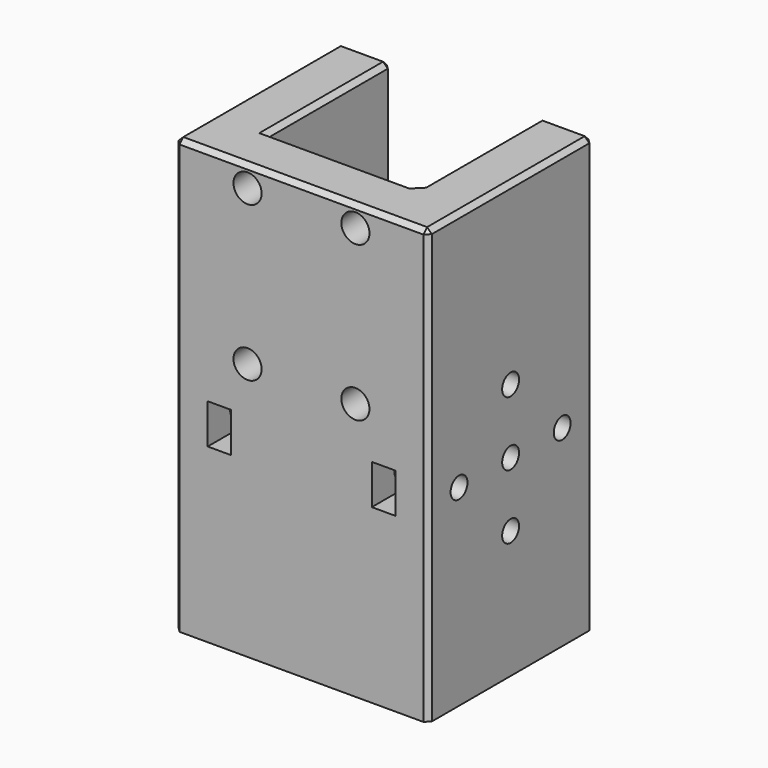
from build123d import *

# Parameters (mm, degrees)
SKETCH_W            = 54
SKETCH_H            = 44
PAD_DEPTH           = 92.5
SKETCH001_W         = 32
SKETCH001_H         = 44
POCKET_DEPTH        = 86.5
SKETCH002_R         = 2.25
HOLE_DEPTH          = 50
HOLE001_DEPTH       = 50
SKETCH003_R         = 1
HOLE002_DEPTH       = 12
HOLE003_D           = 3.5
HOLE003_DEPTH       = 25
HOLE003_CBORE_D     = 6
HOLE003_CBORE_DEPTH = 6
HOLE003_TIPS_R      = 1.75
POCKET001_DEPTH     = 4
POCKET002_DEPTH     = 4
CHAMFER_SIZE        = 1
SKETCH007_W         = 5
SKETCH007_H         = 8.5
POCKET003_DEPTH     = 13


with BuildPart() as part:
    # Sketch → Pad (new body)
    with BuildSketch(Plane.XY):
        Rectangle(SKETCH_W, SKETCH_H)
    extrude(amount=PAD_DEPTH)

    # Sketch001 (on Face6 of Pad) → Pocket (cut)
    with BuildSketch(Plane.XY.offset(92.5)):
        with Locations((0, 11)):
            Rectangle(SKETCH001_W, SKETCH001_H)
    extrude(amount=-POCKET_DEPTH, mode=Mode.SUBTRACT)

    # Sketch002 → Hole (cut)
    with BuildSketch(Plane.YZ):
        with Locations((0, 41)):
            Circle(SKETCH002_R)
        with Locations((13.75, 41)):
            Circle(SKETCH002_R)
        with Locations((0, 54.75)):
            Circle(SKETCH002_R)
        with Locations((0, 27.25)):
            Circle(SKETCH002_R)
        with Locations((-13.75, 41)):
            Circle(SKETCH002_R)
    extrude(amount=-HOLE_DEPTH, mode=Mode.SUBTRACT)

    # Sketch002 → Hole001 (cut)
    with BuildSketch(Plane.YZ):
        with Locations((0, 41)):
            Circle(SKETCH002_R)
        with Locations((13.75, 41)):
            Circle(SKETCH002_R)
        with Locations((0, 54.75)):
            Circle(SKETCH002_R)
        with Locations((0, 27.25)):
            Circle(SKETCH002_R)
        with Locations((-13.75, 41)):
            Circle(SKETCH002_R)
    extrude(amount=HOLE001_DEPTH, mode=Mode.SUBTRACT)

    # Sketch003 → Hole002 (cut)
    with BuildSketch(Plane.XY):
        with Locations((-13, 18.5)):
            Circle(SKETCH003_R)
        with Locations((13, 18.5)):
            Circle(SKETCH003_R)
        with Locations((13, -18.5)):
            Circle(SKETCH003_R)
        with Locations((-13, -18.5)):
            Circle(SKETCH003_R)
    extrude(amount=HOLE002_DEPTH, mode=Mode.SUBTRACT)

    # Hole003
    with Locations(Plane.XZ.offset(22)):
        with Locations((-11.5, 88), (11.5, 88), (11.5, 55), (-11.5, 55)):
            CounterBoreHole(HOLE003_D / 2, HOLE003_CBORE_D / 2, HOLE003_CBORE_DEPTH, depth=HOLE003_DEPTH)

    # Hole003 tips → Hole003 tip 1 section 0
    with BuildSketch(Plane.XZ.offset(-3), mode=Mode.PRIVATE) as hole003_tip_1_s0:
        with Locations((-11.5, 88)):
            Circle(HOLE003_TIPS_R)
    loft([hole003_tip_1_s0.sketch, Vertex(-11.5, 4.051506, 88)], mode=Mode.SUBTRACT)

    # Hole003 tips → Hole003 tip 2 section 0
    with BuildSketch(Plane.XZ.offset(-3), mode=Mode.PRIVATE) as hole003_tip_2_s0:
        with Locations((11.5, 88)):
            Circle(HOLE003_TIPS_R)
    loft([hole003_tip_2_s0.sketch, Vertex(11.5, 4.051506, 88)], mode=Mode.SUBTRACT)

    # Hole003 tips → Hole003 tip 3 section 0
    with BuildSketch(Plane.XZ.offset(-3), mode=Mode.PRIVATE) as hole003_tip_3_s0:
        with Locations((11.5, 55)):
            Circle(HOLE003_TIPS_R)
    loft([hole003_tip_3_s0.sketch, Vertex(11.5, 4.051506, 55)], mode=Mode.SUBTRACT)

    # Hole003 tips → Hole003 tip 4 section 0
    with BuildSketch(Plane.XZ.offset(-3), mode=Mode.PRIVATE) as hole003_tip_4_s0:
        with Locations((-11.5, 55)):
            Circle(HOLE003_TIPS_R)
    loft([hole003_tip_4_s0.sketch, Vertex(-11.5, 4.051506, 55)], mode=Mode.SUBTRACT)

    # Sketch005 → Pocket001 (cut)
    with BuildSketch(Plane(origin=(16, 0, 0), x_dir=(0, -1, 0), z_dir=(-1, 0, 0))):
        Polygon((2.4, 50.843078), (4.8, 55), (2.4, 59.156922), (-2.4, 59.156922), (-4.8, 55), (-2.4, 50.843078), align=None)
        Polygon((2.4, 36.843078), (4.8, 41), (2.4, 45.156922), (-2.4, 45.156922), (-4.8, 41), (-2.4, 36.843078), align=None)
        Polygon((-11.6, 36.843078), (-9.2, 41), (-11.6, 45.156922), (-16.4, 45.156922), (-18.8, 41), (-16.4, 36.843078), align=None)
        Polygon((2.4, 22.843078), (4.8, 27), (2.4, 31.156922), (-2.4, 31.156922), (-4.8, 27), (-2.4, 22.843078), align=None)
    extrude(amount=-POCKET001_DEPTH, mode=Mode.SUBTRACT)

    # Sketch006 (on Face7 of Hole003) → Pocket002 (cut)
    with BuildSketch(Plane.YZ.offset(-16)):
        Polygon((2.4, 50.843078), (4.8, 55), (2.4, 59.156922), (-2.4, 59.156922), (-4.8, 55), (-2.4, 50.843078), align=None)
        Polygon((2.4, 36.843078), (4.8, 41), (2.4, 45.156922), (-2.4, 45.156922), (-4.8, 41), (-2.4, 36.843078), align=None)
        Polygon((16.4, 36.843078), (18.8, 41), (16.4, 45.156922), (11.6, 45.156922), (9.2, 41), (11.6, 36.843078), align=None)
        Polygon((2.4, 22.843078), (4.8, 27), (2.4, 31.156922), (-2.4, 31.156922), (-4.8, 27), (-2.4, 22.843078), align=None)
    extrude(amount=-POCKET002_DEPTH, mode=Mode.SUBTRACT)

    # Chamfer
    chamfer_edges = [part.edges().sort_by_distance(p)[0] for p in [
        (-27, 22, 46.25),
        (-27, -22, 46.25),
        (27, 22, 46.25),
        (27, -22, 46.25),
        (27, 0, 92.5),
        (16, 5.5, 92.5),
        (0, -11, 92.5),
        (-16, 5.5, 92.5),
        (0, -22, 92.5),
        (-27, 0, 92.5),
        (-21.5, 22, 92.5),
        (21.5, 22, 92.5),
        (16, 22, 49.25),
        (0, 22, 6),
        (-16, 22, 49.25),
        (-16, 3.6, 57.078461),
        (-16, 0, 59.156922),
        (-16, -3.6, 57.078461),
        (-16, -3.6, 52.921539),
        (-16, 0, 50.843078),
        (-16, 3.6, 52.921539),
        (-16, 0, 45.156922),
        (-16, -3.6, 43.078461),
        (-16, -3.6, 38.921539),
        (-16, 0, 36.843078),
        (-16, 3.6, 38.921539),
        (-16, 3.6, 43.078461),
        (-16, 14, 45.156922),
        (-16, 10.4, 43.078461),
        (-16, 10.4, 38.921539),
        (-16, 14, 36.843078),
        (-16, 17.6, 38.921539),
        (-16, 17.6, 43.078461),
        (-16, 0, 31.156922),
        (-16, -3.6, 29.078461),
        (-16, -3.6, 24.921539),
        (-16, 0, 22.843078),
        (-16, 3.6, 24.921539),
        (-16, 3.6, 29.078461),
        (16, -3.6, 57.078461),
        (16, 0, 59.156922),
        (16, 3.6, 57.078461),
        (16, 3.6, 52.921539),
        (16, 0, 50.843078),
        (16, -3.6, 52.921539),
        (16, 0, 45.156922),
        (16, -3.6, 43.078461),
        (16, -3.6, 38.921539),
        (16, 0, 36.843078),
        (16, -11, 49.25),
        (16, 5.5, 6),
        (16, -3.6, 24.921539),
        (16, -3.6, 29.078461),
        (16, 0, 31.156922),
        (16, 3.6, 29.078461),
        (16, 3.6, 24.921539),
        (16, 0, 22.843078),
        (16, 10.4, 38.921539),
        (16, 10.4, 43.078461),
        (16, 14, 45.156922),
        (16, 17.6, 43.078461),
        (16, 17.6, 38.921539),
        (16, 14, 36.843078),
        (16, 3.6, 43.078461),
        (16, 3.6, 38.921539),
    ]]
    chamfer(chamfer_edges, length=CHAMFER_SIZE)

    # Sketch007 (on Face15 of Chamfer) → Pocket003 (cut)
    with BuildSketch(Plane.XZ.offset(22)):
        with Locations((-17.5, 41)):
            Rectangle(SKETCH007_W, SKETCH007_H)
        with Locations((17.5, 41)):
            Rectangle(SKETCH007_W, SKETCH007_H)
    extrude(amount=-POCKET003_DEPTH, mode=Mode.SUBTRACT)


solid = part.part
